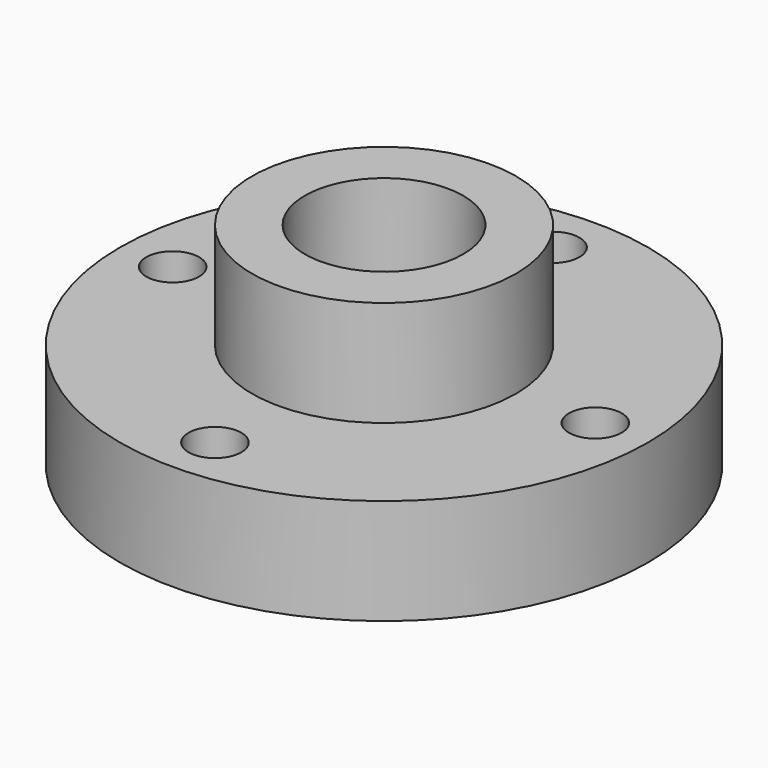
from build123d import *

# Parameters (mm, degrees)
F0_R     = 31.75
F0_R_2   = 3.175
F0_R_3   = 15.875
F1_DEPTH = 12.7
F0_R_4   = 9.525
F2_DEPTH = 12.7
F3_DEPTH = 12.701


with BuildPart() as f1:
    # F0 (on Top) → F1 (new body)
    with BuildSketch(Plane.XY):
        Circle(F0_R)
        with Locations((0, -25.4)):
            Circle(F0_R_2, mode=Mode.SUBTRACT)
        with Locations((-25.4, 0)):
            Circle(F0_R_2, mode=Mode.SUBTRACT)
        Circle(F0_R_3, mode=Mode.SUBTRACT)
        with Locations((25.4, 0)):
            Circle(F0_R_2, mode=Mode.SUBTRACT)
        with Locations((0, 25.4)):
            Circle(F0_R_2, mode=Mode.SUBTRACT)
    extrude(amount=-F1_DEPTH)

    # F0 (on Top) → F2 (join)
    with BuildSketch(Plane.XY):
        Circle(F0_R_3)
        Circle(F0_R_4, mode=Mode.SUBTRACT)
    extrude(amount=F2_DEPTH)

    # F0 (on Top) → F3 (cut, through all)
    with BuildSketch(Plane.XY):
        Circle(F0_R_4)
    extrude(amount=-F3_DEPTH, mode=Mode.SUBTRACT)


solid = f1.part
